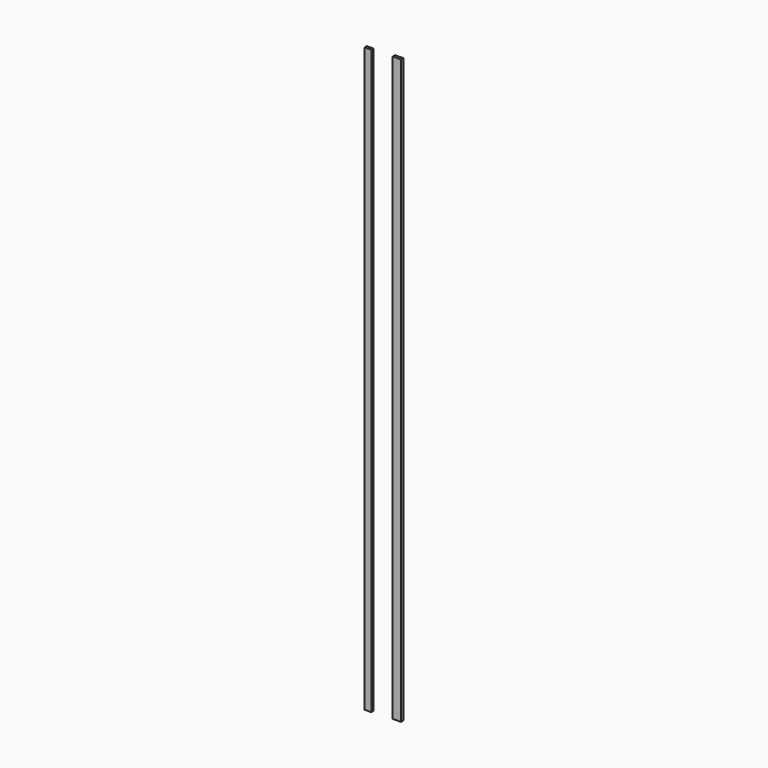
from build123d import *

# Parameters (mm, degrees)
F0_W     = 20.847186
F0_H     = 8.548849
F0_W_2   = 25.796532
F0_H_2   = 9.148777
F1_DEPTH = 1828.8


with BuildPart() as f1:
    # F0 (on Top) → F1 (new body)
    with BuildSketch(Plane.XY):
        with Locations((-52.117981, 33.820461)):
            Rectangle(F0_W, F0_H)
        with Locations((34.045443, 39.369717)):
            Rectangle(F0_W_2, F0_H_2)
    extrude(amount=F1_DEPTH)


solid = f1.part
